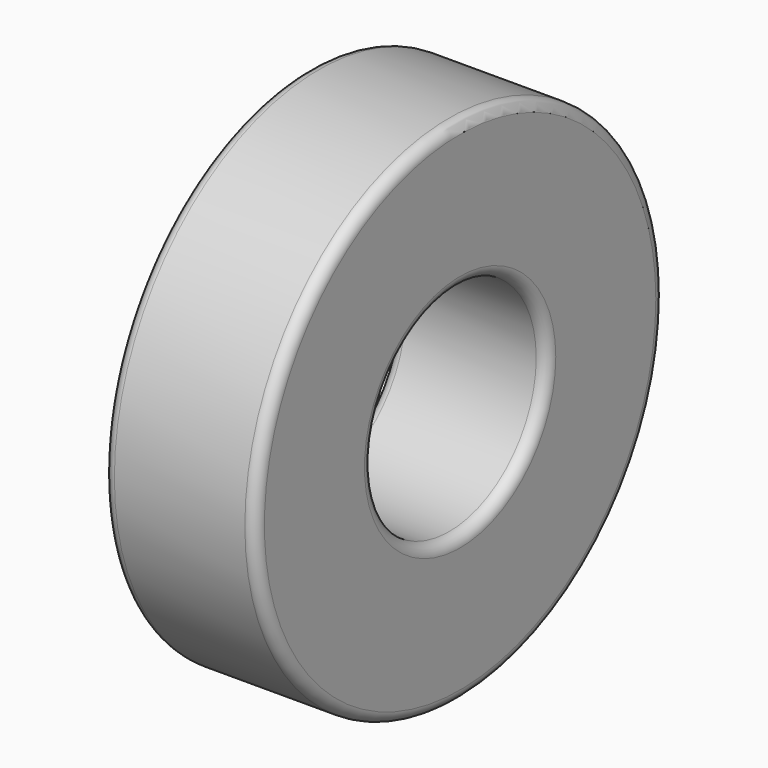
from build123d import *

# Parameters (mm, degrees)
F0_R     = 23.5
F0_R_2   = 10
F1_DEPTH = 7
F2_R     = 1


with BuildPart() as f1:
    # F0 (on Right) → F1 (new body, symmetric)
    with BuildSketch(Plane.YZ):
        Circle(F0_R)
        Circle(F0_R_2, mode=Mode.SUBTRACT)
    extrude(amount=F1_DEPTH, both=True)

    # F2
    f2_edges = [f1.edges().sort_by_distance(p)[0] for p in [
        (7, -23.5, 0),
        (7, -10, 0),
        (-7, -23.5, 0),
        (-7, -10, 0),
    ]]
    fillet(f2_edges, radius=F2_R)


solid = f1.part
